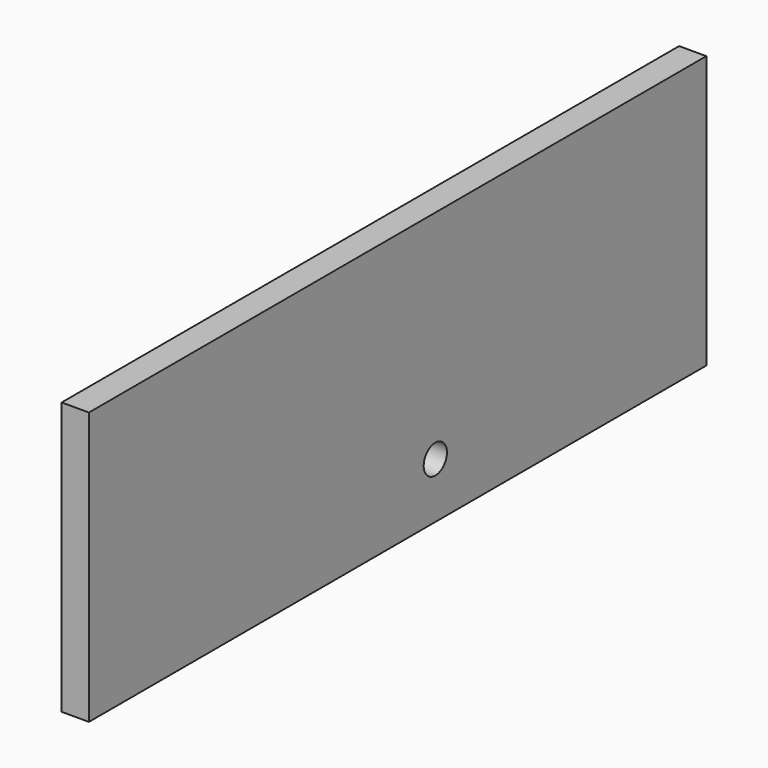
from build123d import *

# Parameters (mm, degrees)
CYLINDER028_R           = 1.6
CYLINDER028_DEPTH       = 10
CYLINDER028_PITCH_ANGLE = 90
BOX003_W                = 3
BOX003_H                = 85
BOX003_DEPTH            = 30


with BuildPart() as back_hole:
    # Cylinder028 → Cylinder028 (new body)
    with BuildSketch(Plane.XY):
        Circle(CYLINDER028_R)
    extrude(amount=CYLINDER028_DEPTH)


with BuildPart() as back_hole_1:
    # Cylinder028 pitch: moved
    add(back_hole.part.rotate(Axis((0, 0, 0), (0, 1, 0)), CYLINDER028_PITCH_ANGLE))


with BuildPart() as back_hole_2:
    # Cylinder028 placement: moved
    add(back_hole_1.part.moved(Location((97.6, 47.69, -18.9))))


with BuildPart() as final_back:
    # Box003 → Box003 (new body)
    with BuildSketch(Plane(origin=(100, 0, -25), x_dir=(1, 0, 0), z_dir=(0, 0, 1))):
        with Locations((1.5, 42.5)):
            Rectangle(BOX003_W, BOX003_H)
    extrude(amount=BOX003_DEPTH)

    # Cut025: cut back hole
    add(back_hole_2.part, mode=Mode.SUBTRACT)


solid = final_back.part
